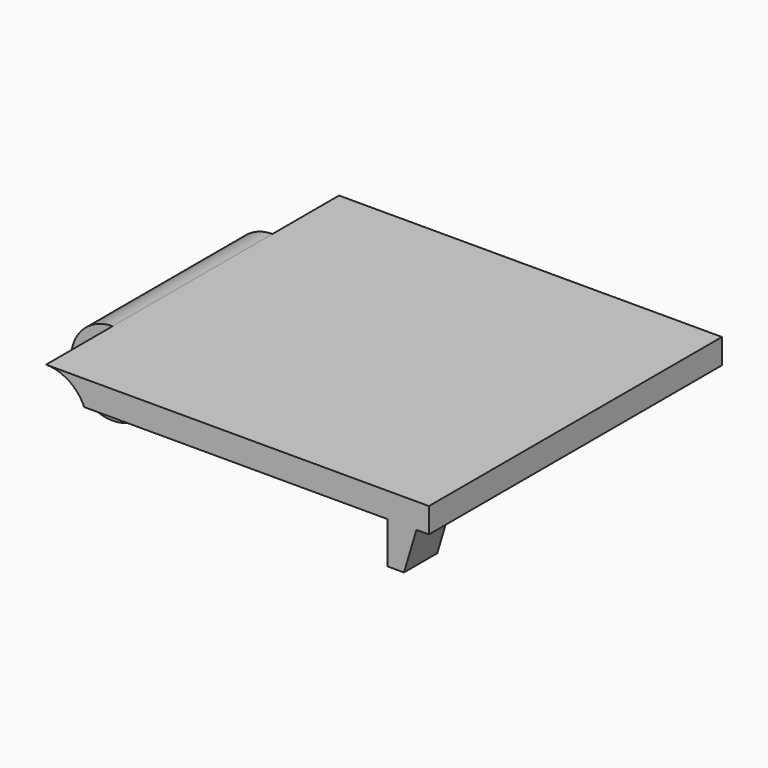
from build123d import *

# Parameters (mm, degrees)
F0_W          = 46
F0_H          = 3
F1_DEPTH      = 22
F2_R          = 5
F2_R_2        = 2
F3_DEPTH      = 22.001
F3_DEPTH_BACK = 22.001
F4_DEPTH      = 12
F5_W          = 5
F5_H          = 5
F6_DEPTH      = 5
F8_DEPTH      = 5.001


with BuildPart() as f1:
    # F0 (on Front) → F1 (new body, symmetric)
    with BuildSketch(Plane.XZ):
        Rectangle(F0_W, F0_H)
    extrude(amount=F1_DEPTH, both=True)

    # F2 (on Front) → F3 (cut, two sides)
    with BuildSketch(Plane.XZ) as f3_sk:
        with Locations((-23, -3.5)):
            Circle(F2_R)
        with Locations((-23, -3.5)):
            Circle(F2_R_2, mode=Mode.SUBTRACT)
    extrude(amount=F3_DEPTH, mode=Mode.SUBTRACT)
    extrude(f3_sk.sketch, amount=-F3_DEPTH_BACK, mode=Mode.SUBTRACT)

    # F2 (on Front) → F4 (join, symmetric)
    with BuildSketch(Plane.XZ):
        with Locations((-23, -3.5)):
            Circle(F2_R)
        with Locations((-23, -3.5)):
            Circle(F2_R_2, mode=Mode.SUBTRACT)
    extrude(amount=F4_DEPTH, both=True)

    # F5 (on face) → F6 (join)
    with BuildSketch(Plane(origin=(0, 0, -1.5), x_dir=(1, 0, 0), z_dir=(0, 0, -1))):
        with Locations((20.5, 19.5)):
            Rectangle(F5_W, F5_H)
    extrude(amount=F6_DEPTH)

    # F7 (on face) → F8 (cut, through all)
    with BuildSketch(Plane(origin=(0, -17, 0), x_dir=(-1, 0, 0), z_dir=(0, 1, 0))):
        Polygon((-23, -1.5), (-23, -6.5), (-20, -6.5), (-21.5, -1.5), align=None)
    extrude(amount=-F8_DEPTH, mode=Mode.SUBTRACT)


solid = f1.part
